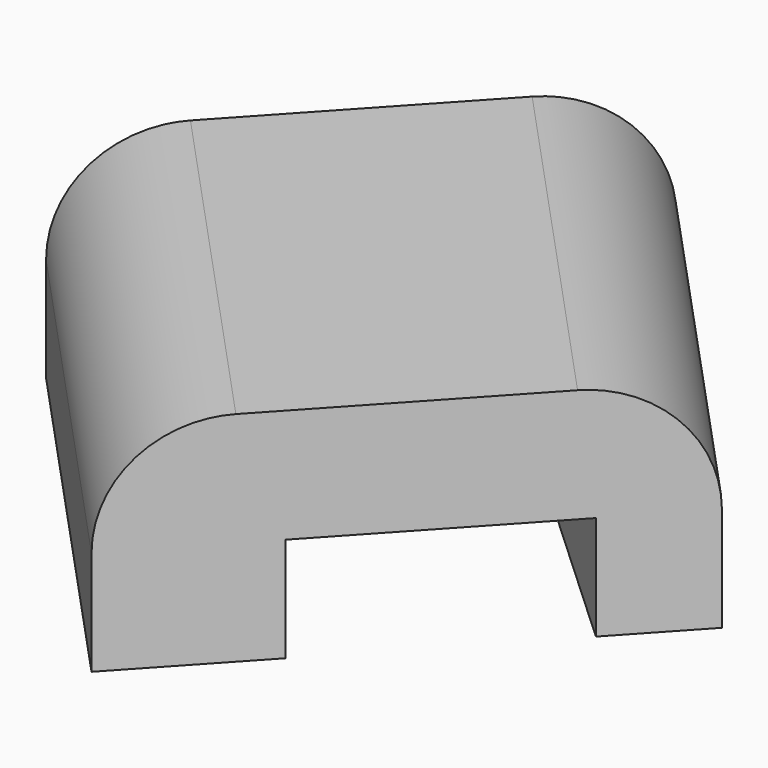
from build123d import *

# Parameters (mm, degrees)
F1_DEPTH = 22.352
F2_R     = 11.650994652
F3_W     = 25.1348185512
F3_H     = 10.701005348
F5_DEPTH = 76.326557987


with BuildPart() as f1:
    # F0 (on Top) → F1 (new body)
    with BuildSketch(Plane.XY):
        Polygon((0, 37.4846383929), (-34.6435047686, 0), (0, -37.4846383929), (34.6435047686, 0), align=None)
    extrude(amount=F1_DEPTH)

    # F2
    f2_edges = [f1.edges().sort_by_distance(p)[0] for p in [
        (-17.321752, -18.742319, 22.352),
        (17.321752, 18.742319, 22.352),
    ]]
    fillet(f2_edges, radius=F2_R)

    # F3 (on face) → F5 (cut, through all)
    with BuildSketch(Plane(origin=(-18.6842489296, 17.2680835308, 0), x_dir=(-0.6787274402, -0.7343902654, 0), z_dir=(-0.7343902654, 0.6787274402, 0))):
        with Locations((-0.7411176725, 5.350502674)):
            Rectangle(F3_W, F3_H)
    extrude(amount=-F5_DEPTH, mode=Mode.SUBTRACT)


solid = f1.part
